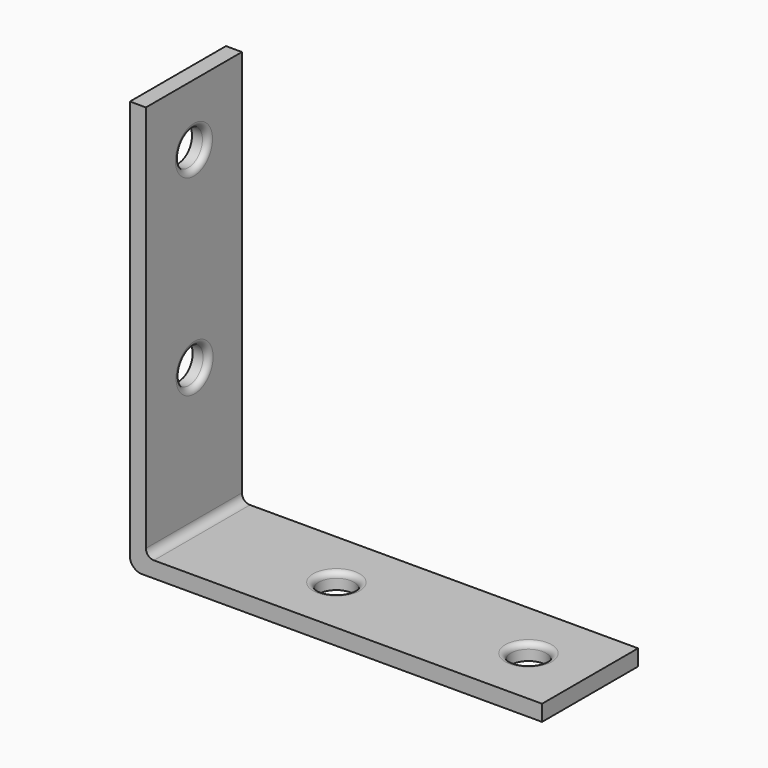
from build123d import *

# Parameters (mm, degrees)
SKETCH_W        = 51.5
SKETCH_H        = 15
PAD_DEPTH       = 2
SKETCH001_W     = 2
SKETCH001_H     = 15
PAD001_DEPTH    = 49.5
FILLET_R        = 1.5
FILLET001_R     = 1
SKETCH002_R     = 2.2
POCKET_DEPTH    = 2.001
FILLET002_R     = 0.7
SKETCH003_R     = 2.2
POCKET001_DEPTH = 2.001
FILLET003_R     = 0.7


with BuildPart() as part:
    # Sketch → Pad (new body)
    with BuildSketch(Plane.XY):
        Rectangle(SKETCH_W, SKETCH_H)
    extrude(amount=PAD_DEPTH)

    # Sketch001 (on Face6 of Pad) → Pad001 (join)
    with BuildSketch(Plane.XY.offset(2)):
        with Locations((-24.75, 0)):
            Rectangle(SKETCH001_W, SKETCH001_H)
    extrude(amount=PAD001_DEPTH)

    # Fillet
    fillet_edges = [part.edges().sort_by_distance(p)[0] for p in [
        (-25.75, 0, 0),
    ]]
    fillet(fillet_edges, radius=FILLET_R)

    # Fillet001
    fillet001_edges = [part.edges().sort_by_distance(p)[0] for p in [
        (-23.75, 0, 2),
    ]]
    fillet(fillet001_edges, radius=FILLET001_R)

    # Sketch002 (on Face2 of Fillet001) → Pocket (cut, through all)
    with BuildSketch(Plane.XY.offset(2)):
        with Locations((18.05, 0)):
            Circle(SKETCH002_R)
        with Locations((-5.95, 0)):
            Circle(SKETCH002_R)
    extrude(amount=-POCKET_DEPTH, mode=Mode.SUBTRACT)

    # Fillet002
    fillet002_edges = [part.edges().sort_by_distance(p)[0] for p in [
        (15.85, 0, 2),
        (-8.15, 0, 2),
    ]]
    fillet(fillet002_edges, radius=FILLET002_R)

    # Sketch003 (on Face14 of Fillet002) → Pocket001 (cut, through all)
    with BuildSketch(Plane.YZ.offset(-23.75)):
        with Locations((0, 43.8)):
            Circle(SKETCH003_R)
        with Locations((0.10123, 19.8)):
            Circle(SKETCH003_R)
    extrude(amount=-POCKET001_DEPTH, mode=Mode.SUBTRACT)

    # Fillet003
    fillet003_edges = [part.edges().sort_by_distance(p)[0] for p in [
        (-23.75, -2.2, 43.8),
        (-23.75, -2.09877, 19.8),
    ]]
    fillet(fillet003_edges, radius=FILLET003_R)


solid = part.part
